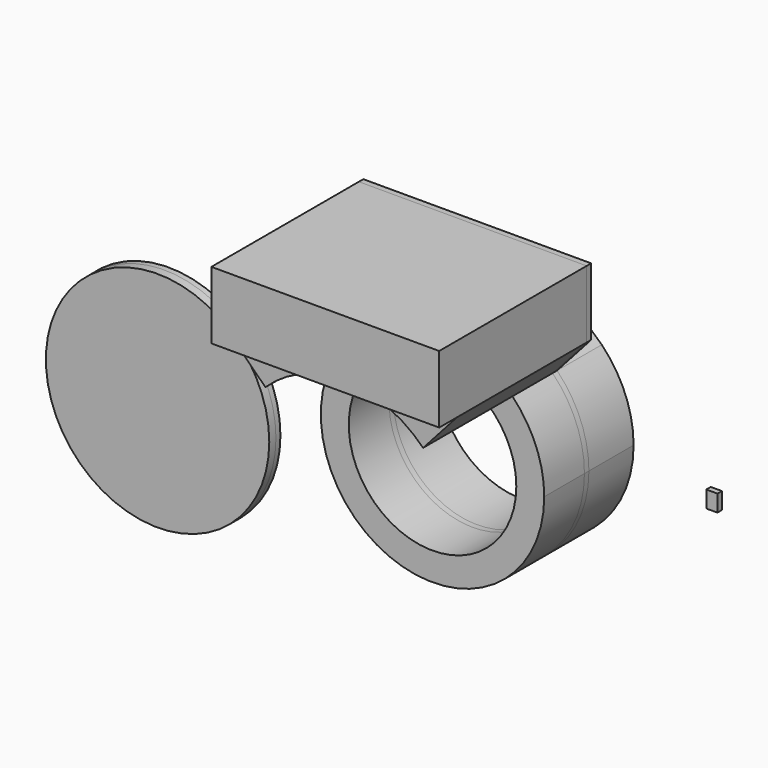
from build123d import *

# Parameters (mm, degrees)
F0_R     = 38.1
F1_DEPTH = 25.4
F2_DEPTH = 76.2
F0_W     = 103.60305
F0_H     = 30.662268
F3_DEPTH = 86.36
F0_R_2   = 50.8
F4_DEPTH = 6.35
F0_W_2   = 5.08
F0_H_2   = 7.62
F5_DEPTH = 2.54


with BuildPart() as f1:
    # F0 (on Front) → F1 (new body, symmetric)
    with BuildSketch(Plane.XZ):
        with BuildLine():
            ThreePointArc((-35.365184, 36.468394), (-19.800109, -46.782429), (50.8, 0))
            ThreePointArc((50.8, 0), (47.045013, 19.167857), (36.335168, 35.50205))
            ThreePointArc((36.335168, 35.50205), (0.684596, 50.795387), (-35.365184, 36.468394))
        make_face()
        Circle(F0_R, mode=Mode.SUBTRACT)
    extrude(amount=F1_DEPTH, both=True)

    # F0 (on Front) → F2 (join)
    with BuildSketch(Plane.XZ):
        with BuildLine():
            ThreePointArc((-35.365184, 36.468394), (0.684596, 50.795387), (36.335168, 35.50205))
            Line((36.335168, 35.50205), (51.801525, 52.790806))
            Line((51.801525, 52.790806), (-51.801525, 52.790806))
            Line((-51.801525, 52.790806), (-35.365184, 36.468394))
        make_face()
        with BuildLine():
            ThreePointArc((-35.365184, 36.468394), (0.684596, 50.795387), (36.335168, 35.50205))
            Line((36.335168, 35.50205), (51.801525, 52.790806))
            Line((51.801525, 52.790806), (-51.801525, 52.790806))
            Line((-51.801525, 52.790806), (-35.365184, 36.468394))
        make_face()
    extrude(amount=F2_DEPTH)

    # F0 (on Front) → F3 (join)
    with BuildSketch(Plane.XZ):
        with Locations((0, 68.12194)):
            Rectangle(F0_W, F0_H)
    extrude(amount=F3_DEPTH)


with BuildPart() as f4:
    # F0 (on Front) → F4 (new body)
    with BuildSketch(Plane.XZ):
        with Locations((-140.289858, -31.435423)):
            Circle(F0_R_2)
    extrude(amount=F4_DEPTH)


with BuildPart() as f5:
    # F0 (on Front) → F5 (new body)
    with BuildSketch(Plane.XZ):
        with BuildLine():
            ThreePointArc((-35.365184, 36.468394), (-19.800109, -46.782429), (50.8, 0))
            ThreePointArc((50.8, 0), (47.045013, 19.167857), (36.335168, 35.50205))
            ThreePointArc((36.335168, 35.50205), (0.684596, 50.795387), (-35.365184, 36.468394))
        make_face()
        Circle(F0_R, mode=Mode.SUBTRACT)
        with BuildLine():
            ThreePointArc((-35.365184, 36.468394), (0.684596, 50.795387), (36.335168, 35.50205))
            Line((36.335168, 35.50205), (51.801525, 52.790806))
            Line((51.801525, 52.790806), (-51.801525, 52.790806))
            Line((-51.801525, 52.790806), (-35.365184, 36.468394))
        make_face()
        with Locations((0, 68.12194)):
            Rectangle(F0_W, F0_H)
        with Locations((-140.289858, -31.435423)):
            Circle(F0_R_2)
        with Locations((108.748518, 7.812504)):
            Rectangle(F0_W_2, F0_H_2)
    extrude(amount=F5_DEPTH)


solid = Compound([f1.part, f4.part, f5.part])
